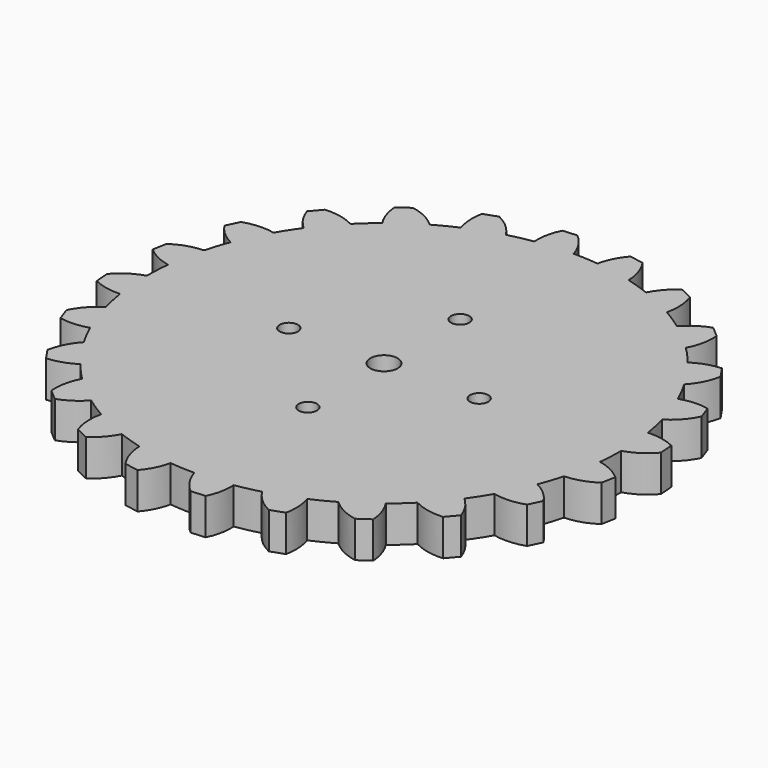
from build123d import *

# Parameters (mm, degrees)
F0_R     = 1.905
F1_DEPTH = 5.08
F2_COUNT = 24
F5_R     = 1.27
F6_DEPTH = 25.4


with BuildPart() as f1:
    # F0 (on Top) → F1 (new body)
    with BuildSketch(Plane.XY):
        with BuildLine():
            ThreePointArc((-408.002278, 34.8517), (-409.893011, 35.500075), (-411.88653, 35.645465))
            ThreePointArc((-411.88653, 35.645465), (-477.41821, 27.88928), (-411.479999, 30.479999))
            ThreePointArc((-411.479999, 30.479999), (-409.493063, 31.413613), (-407.84592, 32.864982))
            Line((-407.84592, 32.864982), (-408.002278, 34.8517))
        make_face()
        with Locations((-444.499999, 30.479999)):
            Circle(F0_R, mode=Mode.SUBTRACT)
    extrude(amount=F1_DEPTH)


with BuildPart() as f2_1:
    # F2: instance of F1
    add(f1.part.rotate(Axis((-444.499999, 30.479999, 0), (0, 0, -1)), 1 * 360 / F2_COUNT))


with BuildPart() as f2_2:
    # F2: instance of F1
    add(f1.part.rotate(Axis((-444.499999, 30.479999, 0), (0, 0, -1)), 2 * 360 / F2_COUNT))


with BuildPart() as f2_3:
    # F2: instance of F1
    add(f1.part.rotate(Axis((-444.499999, 30.479999, 0), (0, 0, -1)), 3 * 360 / F2_COUNT))


with BuildPart() as f2_4:
    # F2: instance of F1
    add(f1.part.rotate(Axis((-444.499999, 30.479999, 0), (0, 0, -1)), 4 * 360 / F2_COUNT))


with BuildPart() as f2_5:
    # F2: instance of F1
    add(f1.part.rotate(Axis((-444.499999, 30.479999, 0), (0, 0, -1)), 5 * 360 / F2_COUNT))


with BuildPart() as f2_6:
    # F2: instance of F1
    add(f1.part.rotate(Axis((-444.499999, 30.479999, 0), (0, 0, -1)), 6 * 360 / F2_COUNT))


with BuildPart() as f2_7:
    # F2: instance of F1
    add(f1.part.rotate(Axis((-444.499999, 30.479999, 0), (0, 0, -1)), 7 * 360 / F2_COUNT))


with BuildPart() as f2_8:
    # F2: instance of F1
    add(f1.part.rotate(Axis((-444.499999, 30.479999, 0), (0, 0, -1)), 8 * 360 / F2_COUNT))


with BuildPart() as f2_9:
    # F2: instance of F1
    add(f1.part.rotate(Axis((-444.499999, 30.479999, 0), (0, 0, -1)), 9 * 360 / F2_COUNT))


with BuildPart() as f2_10:
    # F2: instance of F1
    add(f1.part.rotate(Axis((-444.499999, 30.479999, 0), (0, 0, -1)), 10 * 360 / F2_COUNT))


with BuildPart() as f2_11:
    # F2: instance of F1
    add(f1.part.rotate(Axis((-444.499999, 30.479999, 0), (0, 0, -1)), 11 * 360 / F2_COUNT))


with BuildPart() as f2_12:
    # F2: instance of F1
    add(f1.part.rotate(Axis((-444.499999, 30.479999, 0), (0, 0, -1)), 12 * 360 / F2_COUNT))


with BuildPart() as f2_13:
    # F2: instance of F1
    add(f1.part.rotate(Axis((-444.499999, 30.479999, 0), (0, 0, -1)), 13 * 360 / F2_COUNT))


with BuildPart() as f2_14:
    # F2: instance of F1
    add(f1.part.rotate(Axis((-444.499999, 30.479999, 0), (0, 0, -1)), 14 * 360 / F2_COUNT))


with BuildPart() as f2_15:
    # F2: instance of F1
    add(f1.part.rotate(Axis((-444.499999, 30.479999, 0), (0, 0, -1)), 15 * 360 / F2_COUNT))


with BuildPart() as f2_16:
    # F2: instance of F1
    add(f1.part.rotate(Axis((-444.499999, 30.479999, 0), (0, 0, -1)), 16 * 360 / F2_COUNT))


with BuildPart() as f2_17:
    # F2: instance of F1
    add(f1.part.rotate(Axis((-444.499999, 30.479999, 0), (0, 0, -1)), 17 * 360 / F2_COUNT))


with BuildPart() as f2_18:
    # F2: instance of F1
    add(f1.part.rotate(Axis((-444.499999, 30.479999, 0), (0, 0, -1)), 18 * 360 / F2_COUNT))


with BuildPart() as f2_19:
    # F2: instance of F1
    add(f1.part.rotate(Axis((-444.499999, 30.479999, 0), (0, 0, -1)), 19 * 360 / F2_COUNT))


with BuildPart() as f2_20:
    # F2: instance of F1
    add(f1.part.rotate(Axis((-444.499999, 30.479999, 0), (0, 0, -1)), 20 * 360 / F2_COUNT))


with BuildPart() as f2_21:
    # F2: instance of F1
    add(f1.part.rotate(Axis((-444.499999, 30.479999, 0), (0, 0, -1)), 21 * 360 / F2_COUNT))


with BuildPart() as f2_22:
    # F2: instance of F1
    add(f1.part.rotate(Axis((-444.499999, 30.479999, 0), (0, 0, -1)), 22 * 360 / F2_COUNT))


with BuildPart() as f2_23:
    # F2: instance of F1
    add(f1.part.rotate(Axis((-444.499999, 30.479999, 0), (0, 0, -1)), 23 * 360 / F2_COUNT))


with BuildPart() as f1_1:
    add(f1.part)

    # F3: union F2_1, F2_2, F2_3, F2_4, F2_5, F2_6, F2_11, F2_14, F2_12, F2_13, F2_19, F2_18, F2_17, F2_10, F2_16, F2_15, F2_9, F2_8, F2_7
    add(f2_1.part)
    add(f2_2.part)
    add(f2_3.part)
    add(f2_4.part)
    add(f2_5.part)
    add(f2_6.part)
    add(f2_11.part)
    add(f2_14.part)
    add(f2_12.part)
    add(f2_13.part)
    add(f2_19.part)
    add(f2_18.part)
    add(f2_17.part)
    add(f2_10.part)
    add(f2_16.part)
    add(f2_15.part)
    add(f2_9.part)
    add(f2_8.part)
    add(f2_7.part)


with BuildPart() as f2_20_1:
    add(f2_20.part)

    # F4: union F1, F2_21, F2_22, F2_23
    add(f1_1.part)
    add(f2_21.part)
    add(f2_22.part)
    add(f2_23.part)

    # F5 (on face) → F6 (cut)
    with BuildSketch(Plane.XY.offset(5.08)):
        with BuildLine():
            ThreePointArc((-443.229999, 43.729999), (-445.398025, 44.628025), (-444.499999, 42.459999))
            ThreePointArc((-444.499999, 42.459999), (-443.601974, 42.831974), (-443.229999, 43.729999))
        make_face()
        with Locations((-431.249999, 30.479999)):
            Circle(F5_R)
        with Locations((-444.499999, 17.229999)):
            Circle(F5_R)
        with Locations((-457.749999, 30.479999)):
            Circle(F5_R)
    extrude(amount=-F6_DEPTH, mode=Mode.SUBTRACT)


solid = f2_20_1.part
